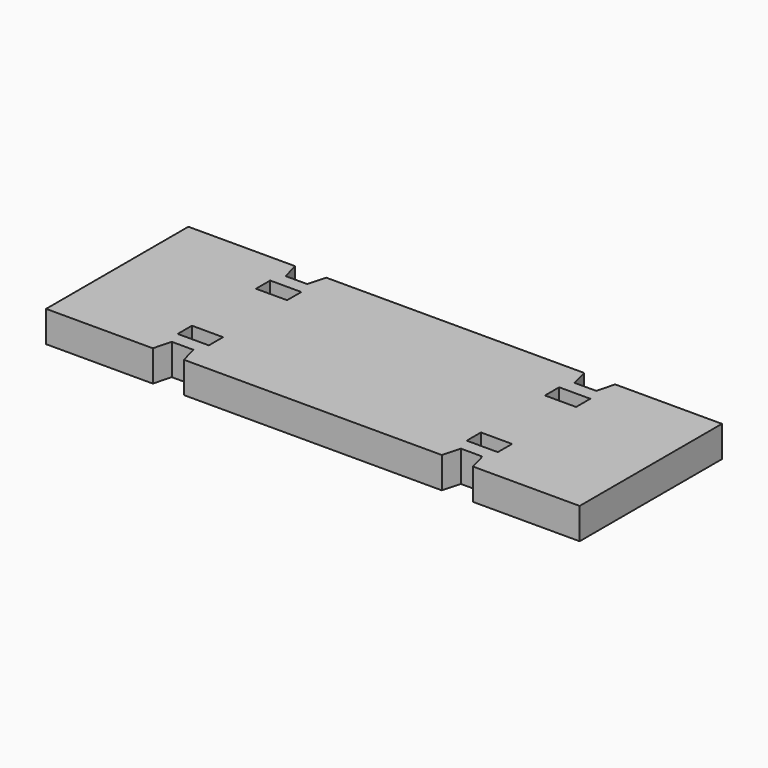
from build123d import *

# Parameters (mm, degrees)
F0_W     = 1524
F0_H     = 508
F1_DEPTH = 88.9
F2_W     = 88.9
F2_H     = 50.8
F3_DEPTH = 88.9


with BuildPart() as f1:
    # F0 (on Top) → F1 (new body)
    with BuildSketch(Plane.XY):
        with Locations((762, 254)):
            Rectangle(F0_W, F0_H)
    extrude(amount=F1_DEPTH)

    # F2 (on face) → F3 (cut, through all)
    with BuildSketch(Plane.XY.offset(88.9)):
        Polygon((318.411819, 50.8), (304.8, 0), (393.7, 0), (380.088181, 50.8), align=None)
        with Locations((349.25, 114.3)):
            Rectangle(F2_W, F2_H)
        Polygon((1143.911819, 50.8), (1130.3, 0), (1219.2, 0), (1205.588181, 50.8), align=None)
        with Locations((1174.75, 114.3)):
            Rectangle(F2_W, F2_H)
        Polygon((318.411819, 457.2), (380.088181, 457.2), (393.7, 508), (304.8, 508), align=None)
        with Locations((1174.75, 393.7)):
            Rectangle(F2_W, F2_H)
        with Locations((349.25, 393.7)):
            Rectangle(F2_W, F2_H)
        Polygon((1205.588181, 457.2), (1219.2, 508), (1130.3, 508), (1143.911819, 457.2), align=None)
    extrude(amount=-F3_DEPTH, mode=Mode.SUBTRACT)


solid = f1.part
